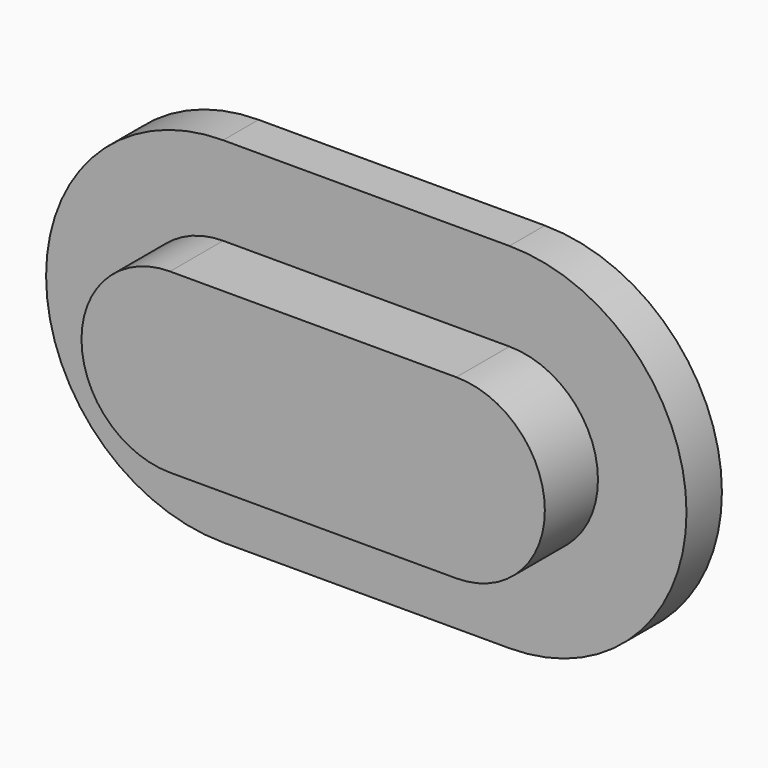
from build123d import *

# Parameters (mm, degrees)
F1_DEPTH = 2
F2_DEPTH = 5


with BuildPart() as f1:
    # F0 (on Front) → F1 (new body)
    with BuildSketch(Plane.XZ):
        with BuildLine():
            ThreePointArc((6.5, -4), (10.5, 0), (6.5, 4))
            Line((6.5, 4), (-6.43273, 4))
            ThreePointArc((-6.43273, 4), (-10.43273, 0), (-6.43273, -4))
            Line((-6.43273, -4), (6.5, -4))
        make_face()
        with BuildLine():
            Line((-6.43273, -8), (6.5, -8))
            ThreePointArc((6.5, -8), (14.5, 0), (6.5, 8))
            Line((6.5, 8), (-6.43273, 8))
            ThreePointArc((-6.43273, 8), (-14.43273, 0), (-6.43273, -8))
        make_face()
        with BuildLine():
            Line((-6.43273, 4), (6.5, 4))
            ThreePointArc((6.5, 4), (10.5, 0), (6.5, -4))
            Line((6.5, -4), (-6.43273, -4))
            ThreePointArc((-6.43273, -4), (-10.43273, 0), (-6.43273, 4))
        make_face(mode=Mode.SUBTRACT)
    extrude(amount=F1_DEPTH)

    # F0 (on Front) → F2 (join)
    with BuildSketch(Plane.XZ):
        with BuildLine():
            ThreePointArc((6.5, -4), (10.5, 0), (6.5, 4))
            Line((6.5, 4), (-6.43273, 4))
            ThreePointArc((-6.43273, 4), (-10.43273, 0), (-6.43273, -4))
            Line((-6.43273, -4), (6.5, -4))
        make_face()
    extrude(amount=F2_DEPTH)


solid = f1.part
